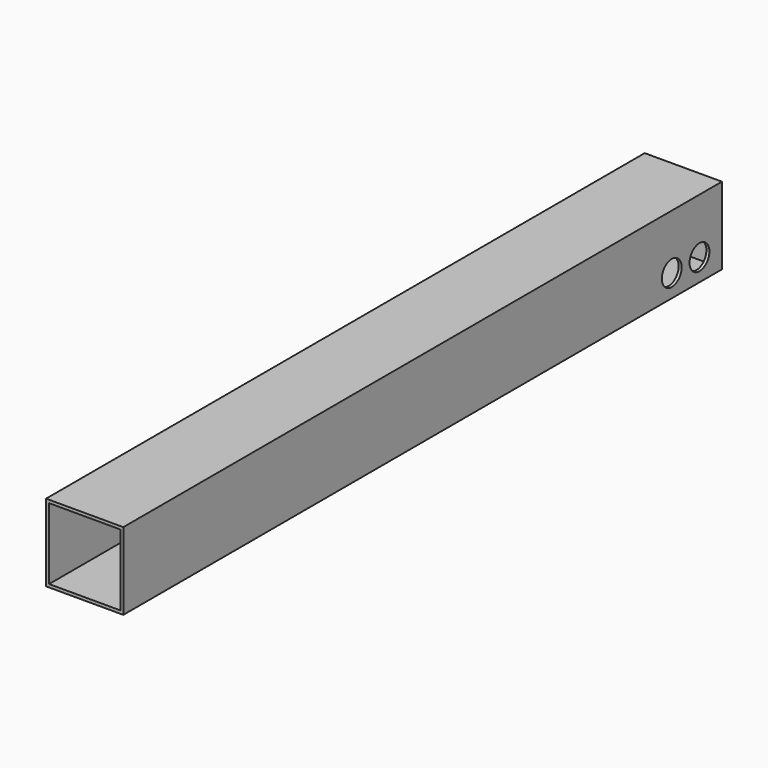
from build123d import *

# Parameters (mm, degrees)
F0_W     = 77
F0_H     = 77
F1_DEPTH = 746
F2_T     = -3
F4_D     = 24.7
F6_D     = 24.7


with BuildPart() as f1:
    # F0 (on Front) → F1 (new body)
    with BuildSketch(Plane.XZ):
        Rectangle(F0_W, F0_H)
    extrude(amount=F1_DEPTH)

    # F2
    f2_openings = [f1.faces().sort_by_distance(p)[0] for p in [
        (0, -746, 0),
    ]]
    offset(amount=F2_T, openings=f2_openings)

    # F4 (through all)
    with Locations(Plane(origin=(-38.5, 0, 0), x_dir=(0, -1, 0), z_dir=(-1, 0, 0))):
        with Locations((27.953846, -16.379451)):
            Hole(F4_D / 2)

    # F6 (through all)
    with Locations(Plane(origin=(-38.5, 0, 0), x_dir=(0, -1, 0), z_dir=(-1, 0, 0))):
        with Locations((62.507309, -16.257038)):
            Hole(F6_D / 2)


solid = f1.part
